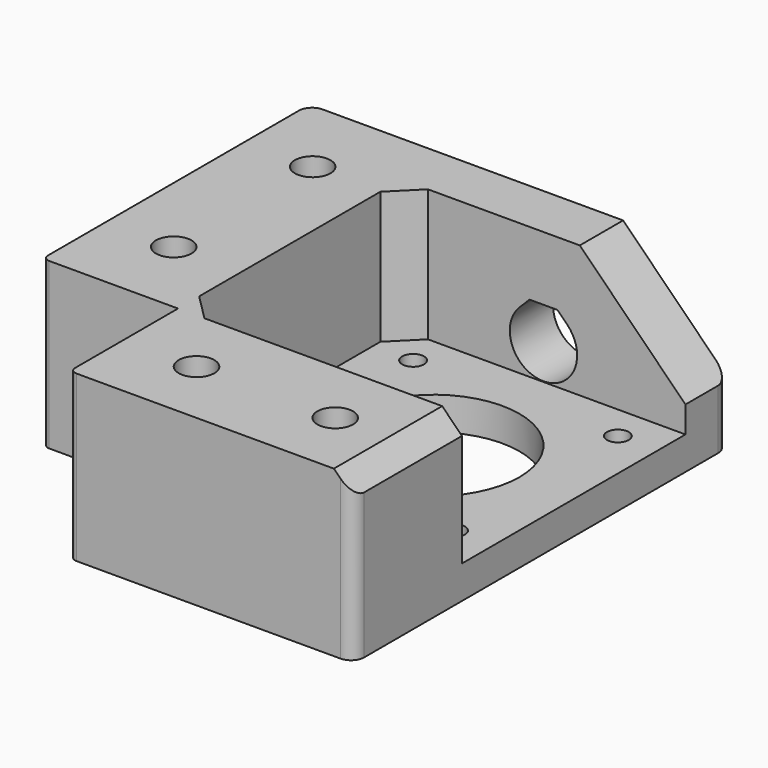
from build123d import *

# Parameters (mm, degrees)
EXTRUDE003_DEPTH           = 10
EXTRUDE003_PLACEMENT_ANGLE = 90
PRISM001_DEPTH             = 0.3
PRISM001_PLACEMENT_ANGLE   = 30
PRISM_DEPTH                = 0.3
SKETCH002_R                = 2.7
EXTRUDE002_DEPTH           = 25
SKETCH001_R                = 5.2
EXTRUDE001_DEPTH           = 6
SKETCH_R                   = 13
SKETCH_R_2                 = 1.65
EXTRUDE_DEPTH              = 5
BOX002_W                   = 43
BOX002_H                   = 42.3
BOX002_DEPTH               = 20
CHAMFER_SIZE               = 4
BOX001_W                   = 20.5
BOX001_H                   = 20.5
BOX001_DEPTH               = 25
BOX_W                      = 63.5
BOX_H                      = 71
BOX_DEPTH                  = 25
CHAMFER001_1_SIZE          = 16
CHAMFER001_2_SIZE          = 3
FILLET_1_R                 = 2
FILLET_2_R                 = 1


with BuildPart() as obj1:
    # Sketch003 → Extrude003 (new body)
    with BuildSketch(Plane.YZ):
        with BuildLine():
            ThreePointArc((-3.606261, 3.606229), (0, -5.1), (3.606261, 3.606229))
            Line((2.112489, 5.1), (3.606261, 3.606229))
            Line((-2.112489, 5.1), (2.112489, 5.1))
            Line((-3.606261, 3.606229), (-2.112489, 5.1))
        make_face()
    extrude(amount=EXTRUDE003_DEPTH)


with BuildPart() as obj1_1:
    # Extrude003 placement: moved
    add(obj1.part.moved(Location((42, 62, 10.2))).rotate(Axis((42, 62, 10.2), (0, 0, 1)), EXTRUDE003_PLACEMENT_ANGLE))


with BuildPart() as obj2:
    # Prism001 → Prism001 (new body)
    with BuildSketch(Plane.XY):
        Polygon((3.1, 0), (1.55, 2.684679), (-1.55, 2.684679), (-3.1, 0), (-1.55, -2.684679), (1.55, -2.684679), align=None)
    extrude(amount=PRISM001_DEPTH)


with BuildPart() as obj2_1:
    # Prism001 placement: moved
    add(obj2.part.moved(Location((10.25, 32.5, 6.3))).rotate(Axis((10.25, 32.5, 6.3), (0, 0, 1)), PRISM001_PLACEMENT_ANGLE))


with BuildPart() as soporte_circulos:
    # Prism → Prism (new body)
    with BuildSketch(Plane(origin=(10.25, 32.5, 6), x_dir=(1, 0, 0), z_dir=(0, 0, 1))):
        Polygon((5.3, 0), (-2.65, 4.589935), (-2.65, -4.589935), align=None)
    extrude(amount=PRISM_DEPTH)

    # Fusion003: union obj2
    add(obj2_1.part)


with BuildPart() as clone:
    # Clone base: copy of soporte_circulos
    add(soporte_circulos.part)


with BuildPart() as clone_1:
    # Clone placement: moved
    add(clone.part.moved(Location((0, 26.3, 0))))


with BuildPart() as clone001:
    # Clone001 base: copy of soporte_circulos
    add(soporte_circulos.part)


with BuildPart() as clone001_1:
    # Clone001 placement: moved
    add(clone001.part.moved(Location((21.25, -22.25, 0))))


with BuildPart() as clone002:
    # Clone002 base: copy of Clone001
    add(clone001_1.part)


with BuildPart() as clone002_1:
    # Clone002 placement: moved
    add(clone002.part.moved(Location((21, 0, 0))))


with BuildPart() as huecos_soporte_taladros:
    # Fusion004 base: copy of soporte_circulos
    add(soporte_circulos.part)

    # Fusion004: union Clone, Clone001, Clone002
    add(clone_1.part)
    add(clone001_1.part)
    add(clone002_1.part)


with BuildPart() as obj3:
    # Sketch002 → Extrude002 (new body)
    with BuildSketch(Plane.XY):
        with Locations((31.5, 10.25)):
            Circle(SKETCH002_R)
        with Locations((52.5, 10.25)):
            Circle(SKETCH002_R)
        with Locations((10.25, 32.5)):
            Circle(SKETCH002_R)
        with Locations((10.25, 58.8)):
            Circle(SKETCH002_R)
    extrude(amount=EXTRUDE002_DEPTH)


with BuildPart() as fusion005:
    # Sketch001 → Extrude001 (new body)
    with BuildSketch(Plane.XY):
        with Locations((31.5, 10.25)):
            Circle(SKETCH001_R)
        with Locations((52.5, 10.25)):
            Circle(SKETCH001_R)
        with Locations((10.25, 32.5)):
            Circle(SKETCH001_R)
        with Locations((10.25, 58.8)):
            Circle(SKETCH001_R)
    extrude(amount=EXTRUDE001_DEPTH)

    # Fusion001: union obj3
    add(obj3.part)

    # Fusion005: union obj1, huecos_soporte_taladros
    add(obj1_1.part)
    add(huecos_soporte_taladros.part)


with BuildPart() as agujero_motor:
    # Sketch → Extrude (new body)
    with BuildSketch(Plane(origin=(20.5, 20.5, 25), x_dir=(1, 0, 0), z_dir=(0, 0, 1))):
        with Locations((21.5, 21.5)):
            Circle(SKETCH_R)
        with Locations((6, 37)):
            Circle(SKETCH_R_2)
        with Locations((37, 37)):
            Circle(SKETCH_R_2)
        with Locations((37, 6)):
            Circle(SKETCH_R_2)
        with Locations((6, 6)):
            Circle(SKETCH_R_2)
    extrude(amount=EXTRUDE_DEPTH)


with BuildPart() as agujero_motor_1:
    # Extrude placement: moved
    add(agujero_motor.part.moved(Location((0, 0, -25))))


with BuildPart() as hueco_motor_total:
    # Box002 → Box002 (new body)
    with BuildSketch(Plane(origin=(20.5, 20.5, 5), x_dir=(1, 0, 0), z_dir=(0, 0, 1))):
        with Locations((21.5, 21.15)):
            Rectangle(BOX002_W, BOX002_H)
    extrude(amount=BOX002_DEPTH)

    # Chamfer
    chamfer_edges = [hueco_motor_total.edges().sort_by_distance(p)[0] for p in [
        (20.5, 20.5, 15),
        (20.5, 62.8, 15),
    ]]
    chamfer(chamfer_edges, length=CHAMFER_SIZE)

    # Fusion: union agujero_motor
    add(agujero_motor_1.part)


with BuildPart() as obj4:
    # Box001 → Box001 (new body)
    with BuildSketch(Plane.XY):
        with Locations((10.25, 10.25)):
            Rectangle(BOX001_W, BOX001_H)
    extrude(amount=BOX001_DEPTH)


with BuildPart() as obj5:
    # Box → Box (new body)
    with BuildSketch(Plane.XY):
        with Locations((31.75, 35.5)):
            Rectangle(BOX_W, BOX_H)
    extrude(amount=BOX_DEPTH)

    # Cut: cut obj4
    add(obj4.part, mode=Mode.SUBTRACT)

    # Cut001: cut hueco_motor_total
    add(hueco_motor_total.part, mode=Mode.SUBTRACT)

    # Cut003: cut Fusion005
    add(fusion005.part, mode=Mode.SUBTRACT)

    # Chamfer001 1
    chamfer001_1_edges = [obj5.edges().sort_by_distance(p)[0] for p in [
        (63.5, 66.9, 25),
    ]]
    chamfer(chamfer001_1_edges, length=CHAMFER001_1_SIZE)

    # Chamfer001 2
    chamfer001_2_edges = [obj5.edges().sort_by_distance(p)[0] for p in [
        (63.5, 10.25, 25),
    ]]
    chamfer(chamfer001_2_edges, length=CHAMFER001_2_SIZE)

    # Fillet 1
    fillet_1_edges = [obj5.edges().sort_by_distance(p)[0] for p in [
        (63.5, 71, 4.5),
        (0, 71, 12.5),
        (63.5, 0, 11),
    ]]
    fillet(fillet_1_edges, radius=FILLET_1_R)

    # Fillet 2
    fillet_2_edges = [obj5.edges().sort_by_distance(p)[0] for p in [
        (0, 20.5, 12.5),
        (20.5, 0, 12.5),
    ]]
    fillet(fillet_2_edges, radius=FILLET_2_R)


solid = obj5.part
